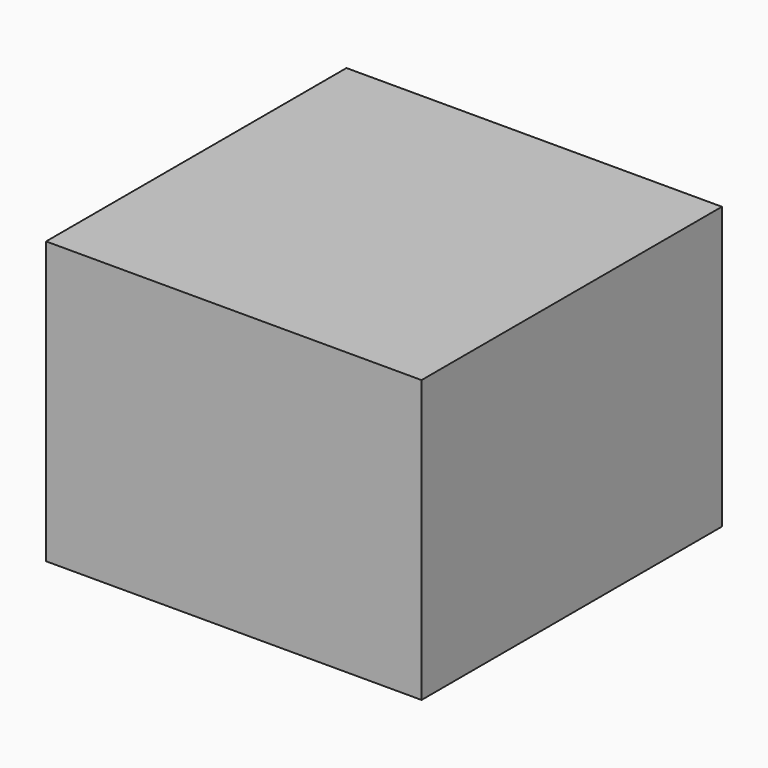
from build123d import *

# Parameters (mm, degrees)
F0_W     = 101.6
F0_H     = 101.6
F0_R     = 38.1
F1_DEPTH = 76.2


with BuildPart() as f1:
    # F0 (on Top) → F1 (new body)
    with BuildSketch(Plane.XY):
        with Locations((0, 4.194495)):
            Rectangle(F0_W, F0_H)
        with Locations((0, 4.194495)):
            Circle(F0_R, mode=Mode.SUBTRACT)
        with Locations((0, 4.194495)):
            Circle(F0_R)
    extrude(amount=F1_DEPTH)


solid = f1.part
